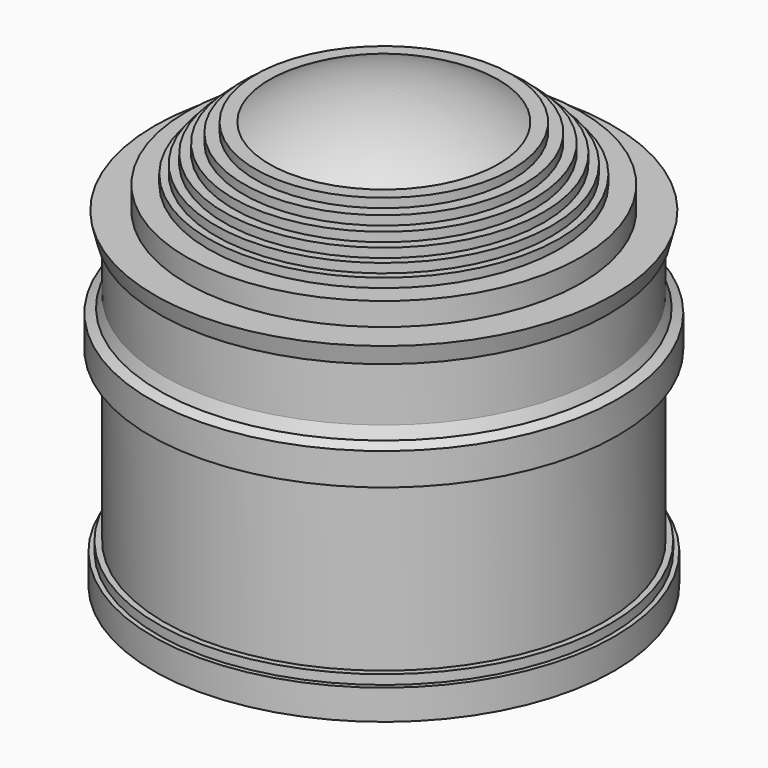
from build123d import *


with BuildPart() as f1:
    # F0 (on Front) → F1 (revolve)
    with BuildSketch(Plane.XZ):
        with BuildLine():
            Line((0, 76.2), (0, 38.1))
            Line((0, 38.1), (0, -76.2))
            Line((0, -76.2), (79.872511, -76.2))
            Line((79.872511, -76.2), (79.872511, -65.777272))
            Line((79.872511, -65.777272), (78.254335, -65.777272))
            Line((78.254335, -65.777272), (78.254335, -62.504791))
            Line((78.254335, -62.504791), (76.2, -62.504791))
            Line((76.2, -62.504791), (76.2, -4.198033))
            Line((76.2, -4.198033), (80.9625, -4.198033))
            Line((80.9625, -4.198033), (80.9625, 6.914467))
            Line((80.9625, 6.914467), (77.836014, 8.487052))
            Line((77.836014, 8.487052), (76.2, 12.349062))
            Line((76.2, 12.349062), (76.2, 31.75))
            Line((76.2, 31.75), (77.7875, 31.75))
            Line((77.7875, 31.75), (79.375, 38.1))
            Line((79.375, 38.1), (68.2625, 38.1))
            Line((68.2625, 38.1), (68.2625, 46.0375))
            Line((68.2625, 46.0375), (60.720578, 46.0375))
            Line((60.720578, 46.0375), (60.720578, 49.2125))
            Line((60.720578, 49.2125), (58.177056, 49.2125))
            Line((58.177056, 49.2125), (58.177056, 52.3875))
            Line((58.177056, 52.3875), (55.33525, 52.3875))
            Line((55.33525, 52.3875), (55.33525, 55.5625))
            Line((55.33525, 55.5625), (52.146415, 55.5625))
            Line((52.146415, 55.5625), (52.146415, 58.7375))
            Line((52.146415, 58.7375), (48.542209, 58.7375))
            Line((48.542209, 58.7375), (48.542209, 61.9125))
            Line((48.542209, 61.9125), (44.421643, 61.9125))
            Line((44.421643, 61.9125), (44.421643, 65.0875))
            Line((44.421643, 65.0875), (39.623949, 65.0875))
            ThreePointArc((39.623949, 65.0875), (20.576352, 73.369297), (0, 76.2))
        make_face()
    revolve(axis=Axis((0, 0, -19.05), (0, 0, -1)))


solid = f1.part
